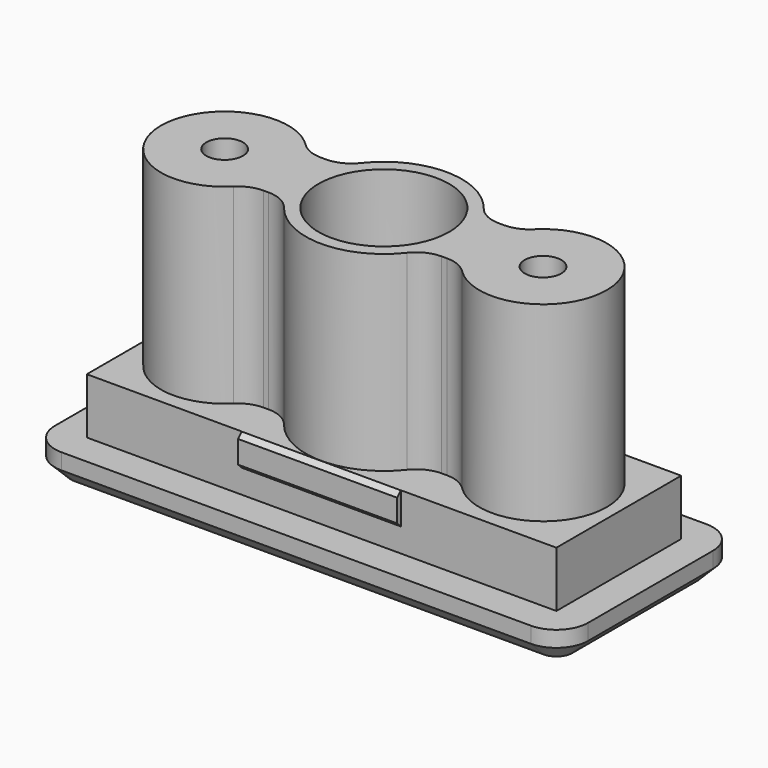
from build123d import *

# Parameters (mm, degrees)
SKETCH_W        = 29.5
SKETCH_H        = 9.8
PAD_DEPTH       = 3.5
SKETCH001_R     = 4.9
SKETCH001_R_2   = 4.1
SKETCH001_R_3   = 4
SKETCH001_R_4   = 1.15
PAD001_DEPTH    = 12
SKETCH002_W     = 33.5
SKETCH002_H     = 13.8
PAD002_DEPTH    = 2
SKETCH003_R     = 3.5
SKETCH003_R_2   = 0.875
POCKET_DEPTH    = 10
SKETCH006_W     = 2.5
SKETCH006_H     = 4.5
PAD003_DEPTH    = 12
FILLET_R        = 2
SKETCH007_W     = 10
SKETCH007_H     = 2
PAD004_DEPTH    = 0.3
SKETCH008_W     = 10
SKETCH008_H     = 2
PAD005_DEPTH    = 0.3
CHAMFER_SIZE    = 0.29
CHAMFER001_SIZE = 0.29
FILLET001_R     = 2
CHAMFER002_SIZE = 1


with BuildPart() as part:
    # Sketch → Pad (new body)
    with BuildSketch(Plane.XY):
        with Locations((0.01, 0)):
            Rectangle(SKETCH_W, SKETCH_H)
    extrude(amount=PAD_DEPTH)

    # Sketch001 (on Face6 of Pad) → Pad001 (join)
    with BuildSketch(Plane.XY.offset(3.5)):
        Circle(SKETCH001_R)
        Circle(SKETCH001_R_2, mode=Mode.SUBTRACT)
        with Locations((-10, 0)):
            Circle(SKETCH001_R_3)
        with Locations((-10, 0)):
            Circle(SKETCH001_R_4, mode=Mode.SUBTRACT)
        with Locations((10, 0)):
            Circle(SKETCH001_R_3)
        with Locations((10, 0)):
            Circle(SKETCH001_R_4, mode=Mode.SUBTRACT)
    extrude(amount=PAD001_DEPTH)

    # Sketch002 → Pad002 (join)
    with BuildSketch(Plane(origin=(0, 0, 0), x_dir=(1, 0, 0), z_dir=(0, 0, -1))):
        with Locations((0.01, 0)):
            Rectangle(SKETCH002_W, SKETCH002_H)
    extrude(amount=PAD002_DEPTH)

    # Sketch003 → Pocket (cut)
    with BuildSketch(Plane(origin=(0, 0, -2), x_dir=(1, 0, 0), z_dir=(0, 0, -1))):
        Circle(SKETCH003_R)
        with Locations((10, 0)):
            Circle(SKETCH003_R_2)
        with Locations((-10, 0)):
            Circle(SKETCH003_R_2)
    extrude(amount=-POCKET_DEPTH, mode=Mode.SUBTRACT)

    # Sketch006 (on Face26 of Pocket) → Pad003 (join)
    with BuildSketch(Plane.XY.offset(15.5)):
        with Locations((-5.55, 0)):
            Rectangle(SKETCH006_W, SKETCH006_H)
        with Locations((5.55, 0)):
            Rectangle(SKETCH006_W, SKETCH006_H)
    extrude(amount=-PAD003_DEPTH)

    # Fillet
    fillet_edges = [part.edges().sort_by_distance(p)[0] for p in [
        (6.692811, -2.25, 9.5),
        (4.352873, -2.25, 9.5),
        (-4.352873, -2.25, 9.5),
        (-6.692811, -2.25, 9.5),
        (-6.692811, 2.25, 9.5),
        (-4.352873, 2.25, 9.5),
        (4.352873, 2.25, 9.5),
        (6.692811, 2.25, 9.5),
    ]]
    fillet(fillet_edges, radius=FILLET_R)

    # Sketch007 (on Face8 of Fillet) → Pad004 (join)
    with BuildSketch(Plane.XZ.offset(4.9)):
        with Locations((0, 2.5)):
            Rectangle(SKETCH007_W, SKETCH007_H)
    extrude(amount=PAD004_DEPTH)

    # Sketch008 (on Face4 of Fillet) → Pad005 (join)
    with BuildSketch(Plane(origin=(0, 4.9, 0), x_dir=(-1, 0, 0), z_dir=(0, 1, 0))):
        with Locations((0, 2.5)):
            Rectangle(SKETCH008_W, SKETCH008_H)
    extrude(amount=PAD005_DEPTH)

    # Chamfer
    chamfer_edges = [part.edges().sort_by_distance(p)[0] for p in [
        (0, 5.2, 3.5),
        (0, 5.2, 1.5),
    ]]
    chamfer(chamfer_edges, length=CHAMFER_SIZE)

    # Chamfer001
    chamfer001_edges = [part.edges().sort_by_distance(p)[0] for p in [
        (0, -5.2, 3.5),
        (0, -5.2, 1.5),
    ]]
    chamfer(chamfer001_edges, length=CHAMFER001_SIZE)

    # Fillet001
    fillet001_edges = [part.edges().sort_by_distance(p)[0] for p in [
        (16.76, -6.9, -1),
        (16.76, 6.9, -1),
        (-16.74, -6.9, -1),
        (-16.74, 6.9, -1),
    ]]
    fillet(fillet001_edges, radius=FILLET001_R)

    # Chamfer002
    chamfer002_edges = [part.edges().sort_by_distance(p)[0] for p in [
        (0.01, 6.9, -2),
    ]]
    chamfer(chamfer002_edges, length=CHAMFER002_SIZE)


solid = part.part
